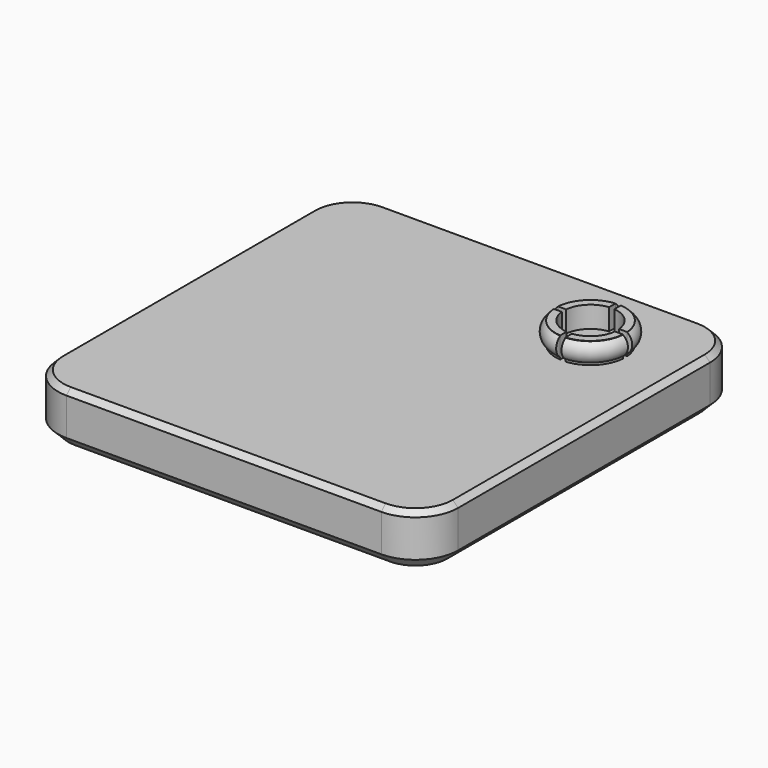
from build123d import *

# Parameters (mm, degrees)
F0_R     = 6.5
F0_R_2   = 5
F1_DEPTH = 4
F0_W     = 75
F0_H     = 75
F2_DEPTH = 10
F3_R     = 8
F4_SIZE  = 2
F5_SIZE  = 1
F9_DEPTH = 4


with BuildPart() as f1:
    # F0 (on Top) → F1 (new body)
    with BuildSketch(Plane.XY):
        Circle(F0_R)
        Circle(F0_R_2, mode=Mode.SUBTRACT)
    extrude(amount=F1_DEPTH)

    # F0 (on Top) → F2 (join)
    with BuildSketch(Plane.XY):
        with Locations((-21.5, -21.5)):
            Rectangle(F0_W, F0_H)
        Circle(F0_R, mode=Mode.SUBTRACT)
        Circle(F0_R)
        Circle(F0_R_2, mode=Mode.SUBTRACT)
        Circle(F0_R_2)
    extrude(amount=-F2_DEPTH)

    # F3
    f3_edges = [f1.edges().sort_by_distance(p)[0] for p in [
        (-59, -59, -5),
        (16, -59, -5),
        (16, 16, -5),
        (-59, 16, -5),
    ]]
    fillet(f3_edges, radius=F3_R)

    # F4
    f4_edges = [f1.edges().sort_by_distance(p)[0] for p in [
        (-21.5, -59, -10),
    ]]
    chamfer(f4_edges, length=F4_SIZE)

    # F5
    f5_edges = [f1.edges().sort_by_distance(p)[0] for p in [
        (16, -21.5, 0),
    ]]
    chamfer(f5_edges, length=F5_SIZE)


with BuildPart() as f7:
    # F6 (on Front) → F7 (revolve)
    with BuildSketch(Plane.XZ):
        with BuildLine():
            Line((6.4723044634, 3.9617195725), (6.5340809524, 0.4349499941))
            ThreePointArc((6.5340809524, 0.4349499941), (7.4368212986, 2.2146886434), (6.4723044634, 3.9617195725))
        make_face()
    revolve(axis=Axis((0, 0, 8.3796254617), (0, 0, 1)))


with BuildPart() as f9_tool:
    # F8 (on face) → F9 (new body)
    with BuildSketch(Plane.XY.offset(4)):
        with BuildLine():
            Line((-6.4807406984, 0.5), (-9, 0.5))
            Line((-9, 0.5), (-9, -0.5))
            Line((-9, -0.5), (-6.4807406984, -0.5))
            ThreePointArc((-6.4807406984, -0.5), (-6.5, 0), (-6.4807406984, 0.5))
        make_face()
        with BuildLine():
            Line((-4.9749371855, 0.5), (-6.4807406984, 0.5))
            ThreePointArc((-6.4807406984, 0.5), (-6.5, 0), (-6.4807406984, -0.5))
            Line((-6.4807406984, -0.5), (-4.9749371855, -0.5))
            ThreePointArc((-4.9749371855, -0.5), (-5, 0), (-4.9749371855, 0.5))
        make_face()
        with BuildLine():
            Line((-0.5, 0.5), (-4.9749371855, 0.5))
            ThreePointArc((-4.9749371855, 0.5), (-5, 0), (-4.9749371855, -0.5))
            Line((-4.9749371855, -0.5), (-0.5, -0.5))
            Line((-0.5, -0.5), (-0.5, 0.5))
        make_face()
        with BuildLine():
            Line((4.9749371855, 0.5), (0.5, 0.5))
            Line((0.5, 0.5), (0.5, -0.5))
            Line((0.5, -0.5), (4.9749371855, -0.5))
            ThreePointArc((4.9749371855, -0.5), (4.9937303656, -0.2503138753), (5, 0))
            ThreePointArc((5, 0), (4.9937303656, 0.2503138753), (4.9749371855, 0.5))
        make_face()
        with BuildLine():
            ThreePointArc((6.5, 0), (6.49518339, 0.2501853916), (6.4807406984, 0.5))
            Line((6.4807406984, 0.5), (4.9749371855, 0.5))
            ThreePointArc((4.9749371855, 0.5), (4.9937303656, 0.2503138753), (5, 0))
            ThreePointArc((5, 0), (4.9937303656, -0.2503138753), (4.9749371855, -0.5))
            Line((4.9749371855, -0.5), (6.4807406984, -0.5))
            ThreePointArc((6.4807406984, -0.5), (6.49518339, -0.2501853916), (6.5, 0))
        make_face()
        with BuildLine():
            Line((9, 0.5), (6.4807406984, 0.5))
            ThreePointArc((6.4807406984, 0.5), (6.49518339, 0.2501853916), (6.5, 0))
            ThreePointArc((6.5, 0), (6.49518339, -0.2501853916), (6.4807406984, -0.5))
            Line((6.4807406984, -0.5), (9, -0.5))
            Line((9, -0.5), (9, 0.5))
        make_face()
        with BuildLine():
            Line((-0.5, 4.9749371855), (-0.5, 0.5))
            Line((-0.5, 0.5), (0.5, 0.5))
            Line((0.5, 0.5), (0.5, 4.9749371855))
            ThreePointArc((0.5, 4.9749371855), (0, 5), (-0.5, 4.9749371855))
        make_face()
        with BuildLine():
            ThreePointArc((0.5, 6.4807406984), (0, 6.5), (-0.5, 6.4807406984))
            Line((-0.5, 6.4807406984), (-0.5, 4.9749371855))
            ThreePointArc((-0.5, 4.9749371855), (0, 5), (0.5, 4.9749371855))
            Line((0.5, 4.9749371855), (0.5, 6.4807406984))
        make_face()
        with BuildLine():
            Line((-0.5, 9), (-0.5, 6.4807406984))
            ThreePointArc((-0.5, 6.4807406984), (0, 6.5), (0.5, 6.4807406984))
            Line((0.5, 6.4807406984), (0.5, 9))
            Line((0.5, 9), (-0.5, 9))
        make_face()
        with BuildLine():
            Line((0.5, -0.5), (-0.5, -0.5))
            Line((-0.5, -0.5), (-0.5, -4.9749371855))
            ThreePointArc((-0.5, -4.9749371855), (0, -5), (0.5, -4.9749371855))
            Line((0.5, -4.9749371855), (0.5, -0.5))
        make_face()
        with BuildLine():
            Line((-0.5, -4.9749371855), (-0.5, -6.4807406984))
            ThreePointArc((-0.5, -6.4807406984), (0, -6.5), (0.5, -6.4807406984))
            Line((0.5, -6.4807406984), (0.5, -4.9749371855))
            ThreePointArc((0.5, -4.9749371855), (0, -5), (-0.5, -4.9749371855))
        make_face()
        with BuildLine():
            ThreePointArc((0.5, -6.4807406984), (0, -6.5), (-0.5, -6.4807406984))
            Line((-0.5, -6.4807406984), (-0.5, -9))
            Line((-0.5, -9), (0.5, -9))
            Line((0.5, -9), (0.5, -6.4807406984))
        make_face()
    extrude(amount=-F9_DEPTH)


with BuildPart() as f1_1:
    add(f1.part)

    # F9: cut by f9_tool
    add(f9_tool.part, mode=Mode.SUBTRACT)


with BuildPart() as f7_1:
    add(f7.part)

    # F9: cut by f9_tool
    add(f9_tool.part, mode=Mode.SUBTRACT)


solid = Compound([f1_1.part, f7_1.part])
